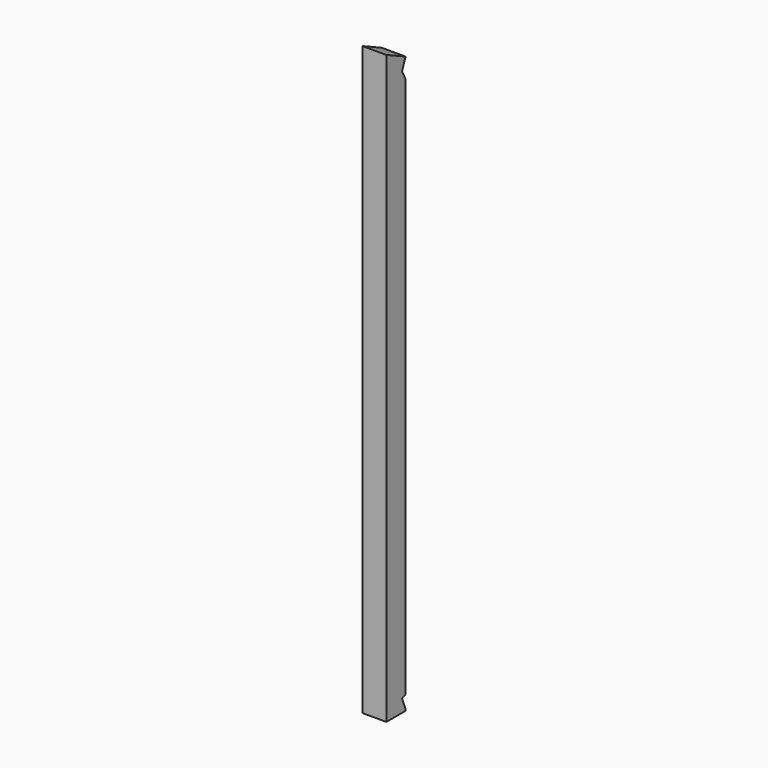
from build123d import *

# Parameters (mm, degrees)
F0_W     = 80
F0_H     = 80
F1_DEPTH = 2000
F3_DEPTH = 80.001


with BuildPart() as f1:
    # F0 (on Top) → F1 (new body)
    with BuildSketch(Plane.XY):
        Rectangle(F0_W, F0_H)
    extrude(amount=F1_DEPTH)

    # F2 (on face) → F3 (cut, through all)
    with BuildSketch(Plane.YZ.offset(40)):
        Polygon((40, 1853.379992), (40, 1920), (25.21013, 1882.834697), align=None)
        Polygon((25.21013, 42.594697), (40, 5.429394), (40, 48.480301), align=None)
        Polygon((-40, 2000), (-40, 1957.304613), (40, 1920), (40, 2000), align=None)
    extrude(amount=-F3_DEPTH, mode=Mode.SUBTRACT)


solid = f1.part
